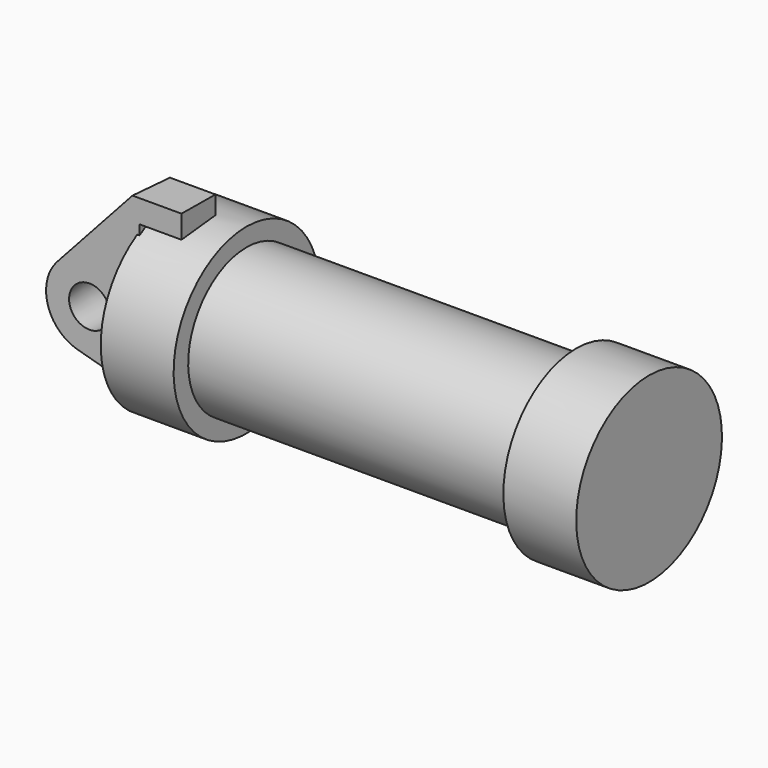
from build123d import *

# Parameters (mm, degrees)
F0_W     = 5.842
F0_H     = 12.7
F0_R     = 3.175
F2_DEPTH = 6.35
F2_TAPER = -3


with BuildPart() as f1:
    # F0 (on Front) → F1 (revolve)
    with BuildSketch(Plane.XZ):
        Polygon((5.842, 12.7), (5.842, 0), (66.294, 0), (66.294, 12.7), (56.134, 12.7), (56.134, 10.16), (10.16, 10.16), (10.16, 12.7), align=None)
        with Locations((2.921, 6.35)):
            Rectangle(F0_W, F0_H)
    revolve(axis=Axis((33.147, 0, 0), (-1, 0, 0)))

    # F0 (on Front) → F2 (join)
    with BuildSketch(Plane.XZ):
        with BuildLine():
            Line((-0.9398, 0), (0, 0))
            Line((0, 0), (0, 12.7))
            Line((0, 12.7), (5.842, 12.7))
            Line((5.842, 12.7), (5.842, 15.24))
            Line((5.842, 15.24), (-0.508, 15.24))
            Line((-0.508, 15.24), (-10.8806298187, 3.8475430269))
            ThreePointArc((-10.8806298187, 3.8475430269), (-4.5919612295, 5.3297205562), (-0.9398, 0))
        make_face()
        with BuildLine():
            ThreePointArc((-8.1826630726, -5.5069827884), (-3.1957909266, -4.5493385486), (-0.9398, 0))
            ThreePointArc((-0.9398, 0), (-4.5919612295, 5.3297205562), (-10.8806298187, 3.8475430269))
            ThreePointArc((-10.8806298187, 3.8475430269), (-12.1459778134, -1.5837270034), (-8.1826630726, -5.5069827884))
        make_face()
        with Locations((-6.6548, 0)):
            Circle(F0_R, mode=Mode.SUBTRACT)
        with BuildLine():
            Line((5.842, 0), (0, 0))
            Line((0, 0), (-0.9398, 0))
            ThreePointArc((-0.9398, 0), (-3.1957909266, -4.5493385486), (-8.1826630726, -5.5069827884))
            Line((-8.1826630726, -5.5069827884), (5.842, -9.398))
            Line((5.842, -9.398), (5.842, 0))
        make_face()
    extrude(amount=F2_DEPTH, taper=F2_TAPER)


solid = f1.part
